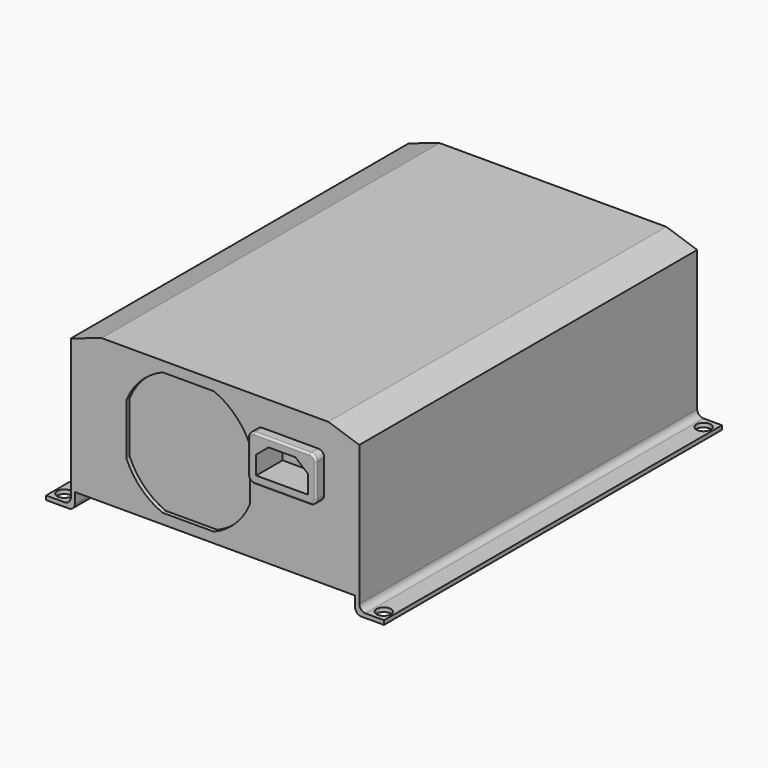
from build123d import *

# Parameters (mm, degrees)
F1_DEPTH  = 102.5
F2_R      = 3.5
F3_DEPTH  = 2
F5_DEPTH  = 5
F6_R      = 1
F8_DEPTH  = 16
F10_DEPTH = 2


with BuildPart() as f1:
    # F0 (on Front) → F1 (new body, symmetric)
    with BuildSketch(Plane.XZ):
        Polygon((55, 70), (0, 70), (-55, 70), (-70, 65), (-70, 0), (-68, 0), (0, 0), (68, 0), (70, 0), (70, 65), align=None)
        with BuildLine():
            Line((70, -3), (70, 0))
            Line((70, 0), (68, 0))
            Line((68, 0), (68, -5))
            ThreePointArc((68, -5), (68.87868, -7.12132), (71, -8))
            Line((71, -8), (82, -8))
            Line((82, -8), (82, -6))
            Line((82, -6), (73, -6))
            ThreePointArc((73, -6), (70.87868, -5.12132), (70, -3))
        make_face()
        with BuildLine():
            Line((-68, 0), (-70, 0))
            Line((-70, 0), (-70, -3))
            ThreePointArc((-70, -3), (-70.87868, -5.12132), (-73, -6))
            Line((-73, -6), (-82, -6))
            Line((-82, -6), (-82, -8))
            Line((-82, -8), (-71, -8))
            ThreePointArc((-71, -8), (-68.87868, -7.12132), (-68, -5))
            Line((-68, -5), (-68, 0))
        make_face()
    extrude(amount=F1_DEPTH, both=True)

    # F2 (on face) → F3 (cut, through all)
    with BuildSketch(Plane.XY.offset(-6)):
        with Locations((77.5, -97)):
            Circle(F2_R)
        with Locations((77.5, 97)):
            Circle(F2_R)
        with Locations((-77.5, -97)):
            Circle(F2_R)
        with Locations((-77.5, 97)):
            Circle(F2_R)
    extrude(amount=-F3_DEPTH, mode=Mode.SUBTRACT)

    # F4 (on face) → F5 (join)
    with BuildSketch(Plane.XZ.offset(102.5)):
        with BuildLine():
            Line((50, 57), (23, 57))
            ThreePointArc((23, 57), (20.87868, 56.12132), (20, 54))
            Line((20, 54), (20, 38))
            ThreePointArc((20, 38), (20.87868, 35.87868), (23, 35))
            Line((23, 35), (50, 35))
            ThreePointArc((50, 35), (52.12132, 35.87868), (53, 38))
            Line((53, 38), (53, 54))
            ThreePointArc((53, 54), (52.12132, 56.12132), (50, 57))
        make_face()
    extrude(amount=F5_DEPTH)

    # F6
    f6_edges = [f1.edges().sort_by_distance(p)[0] for p in [
        (36.5, -107.5, 57),
        (20.87868, -107.5, 56.12132),
        (20, -107.5, 46),
        (20.87868, -107.5, 35.87868),
        (36.5, -107.5, 35),
        (52.12132, -107.5, 35.87868),
        (53, -107.5, 46),
        (52.12132, -107.5, 56.12132),
    ]]
    fillet(f6_edges, radius=F6_R)

    # F7 (on face) → F8 (cut)
    with BuildSketch(Plane.XZ.offset(107.5)):
        Polygon((43, 53), (30, 53), (24, 48), (24, 39), (49, 39), (49, 48), align=None)
    extrude(amount=-F8_DEPTH, mode=Mode.SUBTRACT)

    # F9 (on face) → F10 (cut)
    with BuildSketch(Plane.XZ.offset(102.5)):
        with BuildLine():
            Line((17, 22.5), (17, 47.5))
            ThreePointArc((17, 47.5), (9.98097, 57.98097), (-0.5, 65))
            Line((-0.5, 65), (-25.5, 65))
            ThreePointArc((-25.5, 65), (-35.98097, 57.98097), (-43, 47.5))
            Line((-43, 47.5), (-43, 22.5))
            ThreePointArc((-43, 22.5), (-35.98097, 12.01903), (-25.5, 5))
            Line((-25.5, 5), (-0.5, 5))
            ThreePointArc((-0.5, 5), (9.98097, 12.01903), (17, 22.5))
        make_face()
    extrude(amount=-F10_DEPTH, mode=Mode.SUBTRACT)


solid = f1.part
